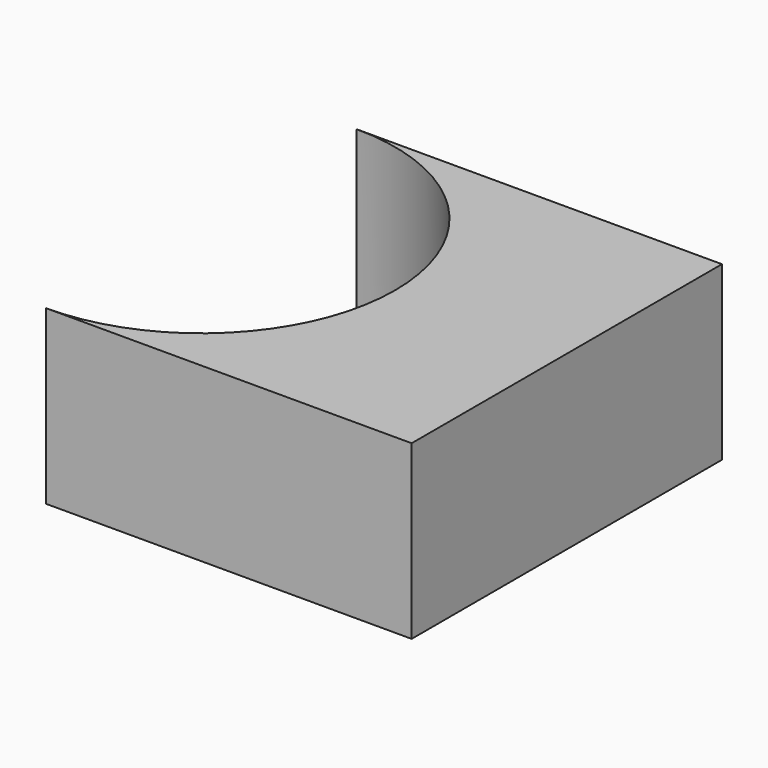
from build123d import *

# Parameters (mm, degrees)
F1_DEPTH = 25.4


with BuildPart() as f1:
    # F0 (on Top) → F1 (new body)
    with BuildSketch(Plane.XY):
        with BuildLine():
            ThreePointArc((0, 28.596171), (20.220547, 20.220547), (28.596171, 0))
            ThreePointArc((28.596171, 0), (20.220547, -20.220547), (0, -28.596171))
            Line((0, -28.596171), (53.911736, -28.596171))
            Line((53.911736, -28.596171), (53.911736, 28.596171))
            Line((53.911736, 28.596171), (0, 28.596171))
        make_face()
    extrude(amount=F1_DEPTH)


solid = f1.part
